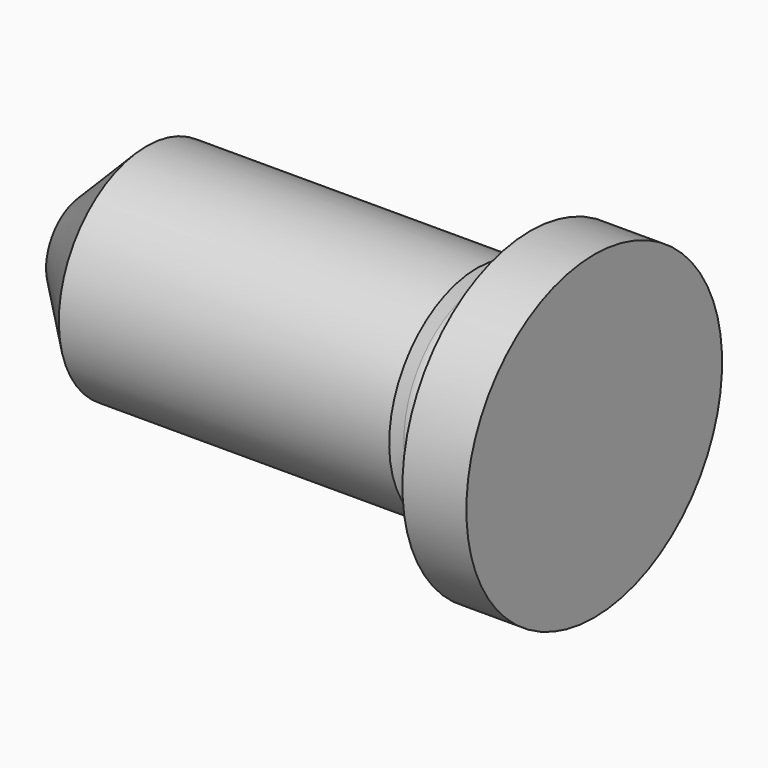
from build123d import *

# Parameters (mm, degrees)
F2_SIZE2 = 3
F2_SIZE  = 3


with BuildPart() as f1:
    # F0 (on Front) → F1 (revolve)
    with BuildSketch(Plane.XZ):
        with BuildLine():
            Line((18.5, 5.15), (0, 5.15))
            Line((0, 5.15), (0, 0))
            Line((0, 0), (24, 0))
            Line((24, 0), (24, 7.5))
            Line((24, 7.5), (21, 7.5))
            Line((21, 7.5), (21, 5.15))
            ThreePointArc((21, 5.15), (20.707107, 4.442893), (20, 4.15))
            Line((20, 4.15), (19.654701, 4.15))
            ThreePointArc((19.654701, 4.15), (19.154701, 4.283975), (18.788675, 4.65))
            Line((18.788675, 4.65), (18.5, 5.15))
        make_face()
    revolve(axis=Axis((12.35421, 0, 0), (1, 0, 0)))

    # F2
    f2_edges = [f1.edges().sort_by_distance(p)[0] for p in [
        (0, 0, -5.15),
    ]]
    chamfer(f2_edges, length=F2_SIZE, length2=F2_SIZE2)


solid = f1.part
